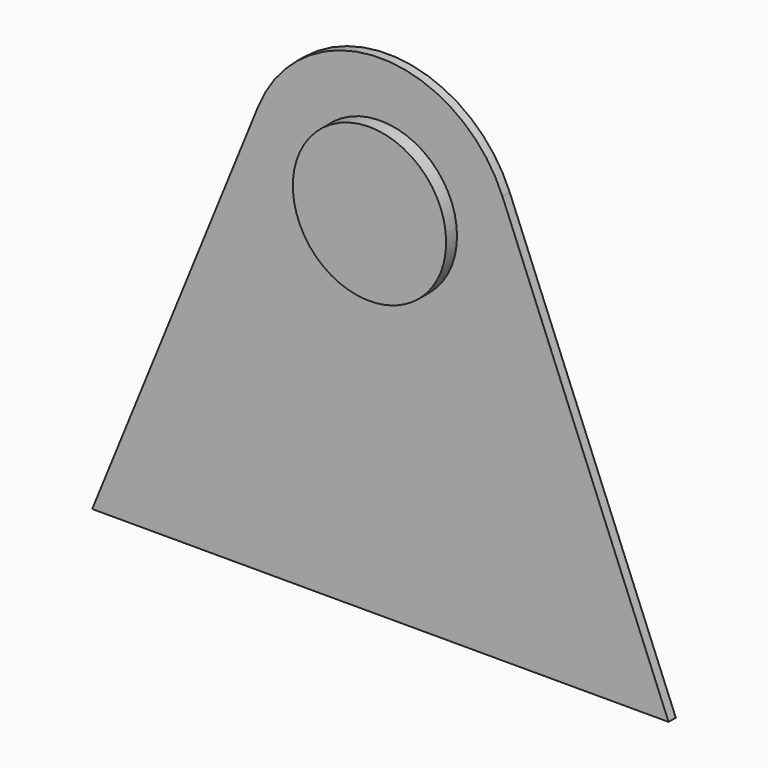
from build123d import *

# Parameters (mm, degrees)
F0_R     = 17.16592
F1_DEPTH = 2.032
F2_DEPTH = 5.08


with BuildPart() as f1:
    # F0 (on Front) → F1 (new body)
    with BuildSketch(Plane.XZ):
        with BuildLine():
            ThreePointArc((-27.338657, 11.112255), (-5.661276, -28.962637), (29.510751, 0))
            ThreePointArc((29.510751, 0), (28.962637, 5.661276), (27.338657, 11.112255))
            ThreePointArc((27.338657, 11.112255), (0, 29.510751), (-27.338657, 11.112255))
        make_face()
        Circle(F0_R, mode=Mode.SUBTRACT)
        with BuildLine():
            ThreePointArc((27.338657, 11.112255), (28.962637, 5.661276), (29.510751, 0))
            ThreePointArc((29.510751, 0), (-5.661276, -28.962637), (-27.338657, 11.112255))
            Line((-27.338657, 11.112255), (-64.530984, -80.389269))
            Line((-64.530984, -80.389269), (64.530984, -80.389269))
            Line((64.530984, -80.389269), (27.338657, 11.112255))
        make_face()
    extrude(amount=F1_DEPTH)

    # F0 (on Front) → F2 (join)
    with BuildSketch(Plane.XZ):
        Circle(F0_R)
    extrude(amount=F2_DEPTH)


solid = f1.part
